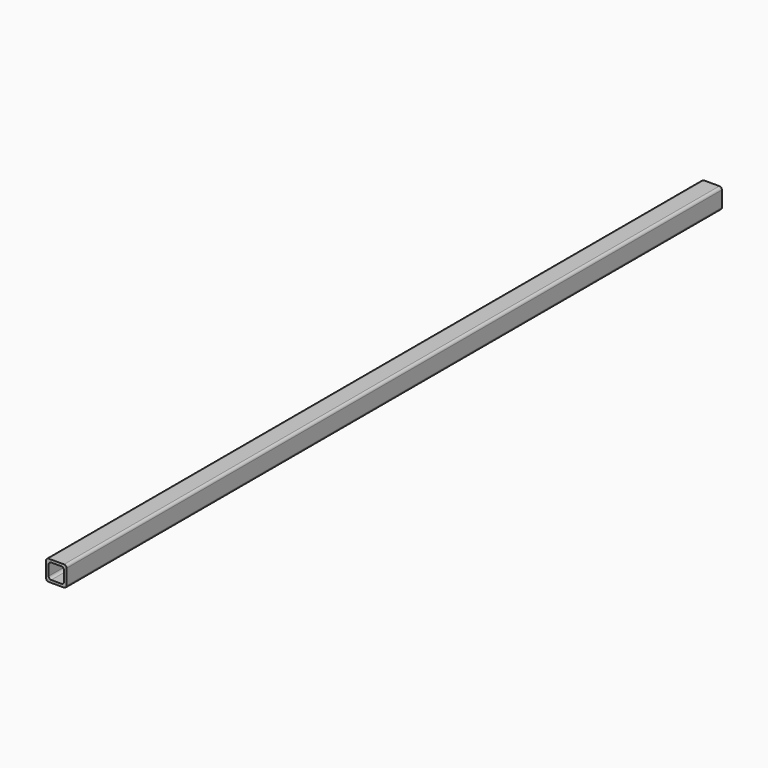
from build123d import *

# Parameters (mm, degrees)
F0_W     = 50.8
F0_H     = 50.8
F0_W_2   = 38.1
F0_H_2   = 38.1
F1_DEPTH = 2032
F2_R     = 6.35


with BuildPart() as f1:
    # F0 (on Front) → F1 (new body)
    with BuildSketch(Plane.XZ):
        Rectangle(F0_W, F0_H)
        Rectangle(F0_W_2, F0_H_2, mode=Mode.SUBTRACT)
    extrude(amount=F1_DEPTH)

    # F2
    f2_edges = [f1.edges().sort_by_distance(p)[0] for p in [
        (25.4, -1016, 25.4),
        (25.4, -1016, -25.4),
        (-25.4, -1016, 25.4),
        (-25.4, -1016, -25.4),
        (-19.05, -1016, -19.05),
        (19.05, -1016, -19.05),
        (19.05, -1016, 19.05),
        (-19.05, -1016, 19.05),
    ]]
    fillet(f2_edges, radius=F2_R)


solid = f1.part
